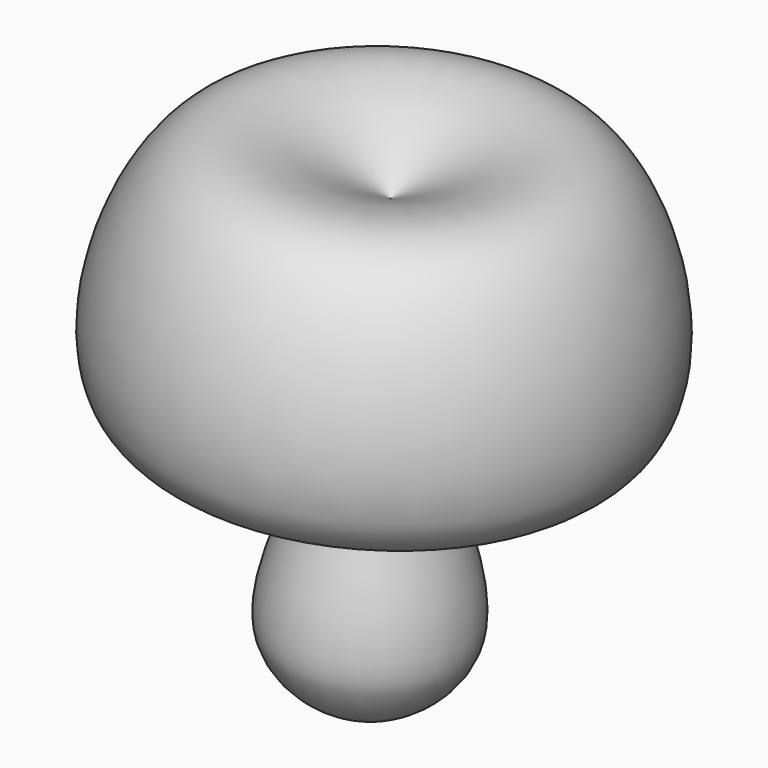
from build123d import *


with BuildPart() as f1:
    # F0 (on Front) → F1 (revolve)
    with BuildSketch(Plane.XZ):
        with BuildLine():
            add(Edge.make_bspline(
                [(-26.7894212157, 75.4547566175), (-8.1429377443, 84.5463974398), (31.5007294406, 103.8758320474), (50.0573820797, -3.2660962356), (-44.145573211, 31.3546356468), (64.8803660529, 60.205186292), (-18.9147541551, 67.1505760187), (-21.0512670548, 17.0986736703), (1.5034445944, -33.6407893928), (-23.6974736889, -50.4637932194), (-30.9692359246, -50.0973243544), (-33.8392667472, -49.952685833)],
                knots=[0, 0, 0, 0, 0.1259522962, 0.2677829801, 0.3810665696, 0.5086721204, 0.618097678, 0.7325666853, 0.8610289478, 0.9451506814, 1, 1, 1, 1], degree=3))
            Line((-26.7894212157, 75.4547566175), (-33.8392667472, -49.952685833))
        make_face()
    revolve(axis=Axis((-30.3143439814, 0, 12.7510353923), (-0.0561269117, 0, -0.9984236424)))


solid = f1.part
